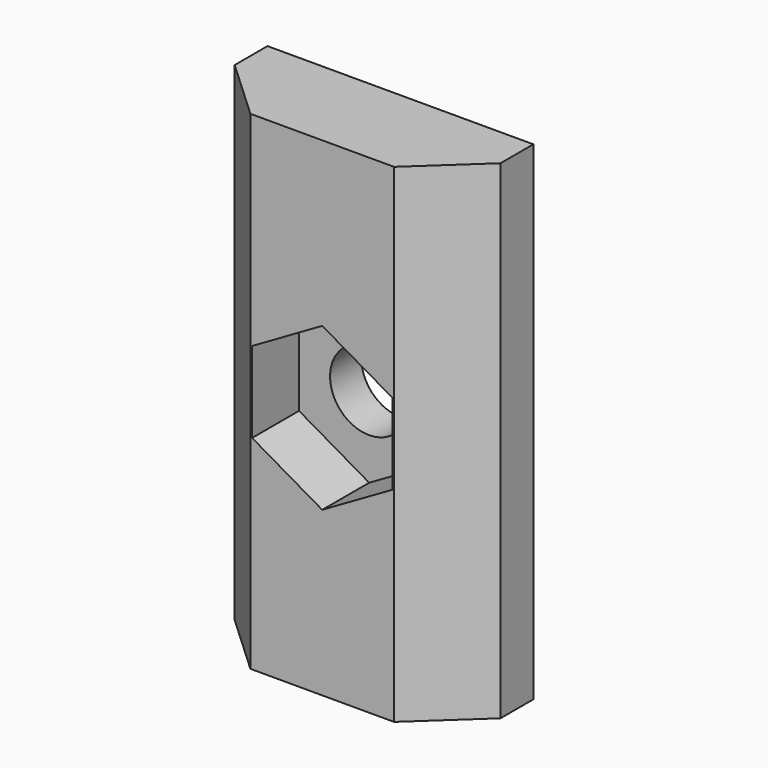
from build123d import *

# Parameters (mm, degrees)
PAD_DEPTH       = 20
SKETCH001_R     = 1.6
POCKET_DEPTH    = 5.68
SKETCH002_W     = 5
SKETCH002_H     = 5
SKETCH002_R     = 1.6
PAD001_DEPTH    = 1
SKETCH003_R     = 1.6
POCKET001_DEPTH = 2.4
SKETCH004_W     = 5.88
SKETCH004_H     = 2.68
POCKET002_DEPTH = 20.001


with BuildPart() as part:
    # Sketch → Pad (new body)
    with BuildSketch(Plane.XY):
        Polygon((2.94, -2.84), (-2.94, -2.84), (-5.44, -0.52), (-5.44, 1.16), (-2.94, 1.16), (-2.94, 2.84), (2.94, 2.84), (2.94, 1.16), (5.44, 1.16), (5.44, -0.52), align=None)
    extrude(amount=PAD_DEPTH)

    # Sketch001 (on Face6 of Pad) → Pocket (cut)
    with BuildSketch(Plane(origin=(0, 2.84, 0), x_dir=(-1, 0, 0), z_dir=(0, 1, 0))):
        with Locations((0, 10)):
            Circle(SKETCH001_R)
    extrude(amount=-POCKET_DEPTH, mode=Mode.SUBTRACT)

    # Sketch002 (on Face11 of Pocket) → Pad001 (join)
    with BuildSketch(Plane(origin=(0, 2.84, 0), x_dir=(-1, 0, 0), z_dir=(0, 1, 0))):
        with Locations((0, 10)):
            Rectangle(SKETCH002_W, SKETCH002_H)
        with Locations((0, 10)):
            Circle(SKETCH002_R, mode=Mode.SUBTRACT)
    extrude(amount=PAD001_DEPTH)

    # Sketch003 (on Face1 of Pad001) → Pocket001 (cut)
    with BuildSketch(Plane.XZ.offset(2.84)):
        Polygon((0, 6.686009), (2.87, 8.343005), (2.87, 11.656995), (0, 13.313991), (-2.87, 11.656995), (-2.87, 8.343005), align=None)
        with Locations((0, 10)):
            Circle(SKETCH003_R, mode=Mode.SUBTRACT)
    extrude(amount=-POCKET001_DEPTH, mode=Mode.SUBTRACT)

    # Sketch004 (on Face3 of Pocket001) → Pocket002 (cut, through all)
    with BuildSketch(Plane(origin=(0, 0, 0), x_dir=(1, 0, 0), z_dir=(0, 0, -1))):
        with Locations((0, -2.5)):
            Rectangle(SKETCH004_W, SKETCH004_H)
    extrude(amount=-POCKET002_DEPTH, mode=Mode.SUBTRACT)


solid = part.part
